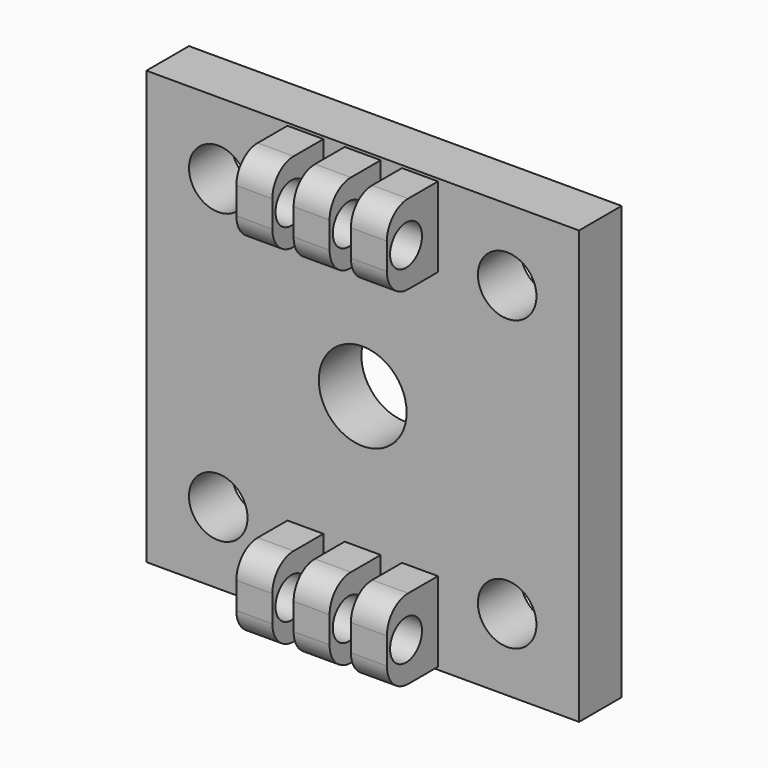
from build123d import *

# Parameters (mm, degrees)
F0_W     = 812.8
F0_H     = 812.8
F0_R     = 55
F0_R_2   = 82.5
F1_DEPTH = 100
F2_W     = 67.6
F2_H     = 150
F3_DEPTH = 120
F4_R     = 50
F5_R     = 37.5
F6_DEPTH = 547.801


with BuildPart() as f1:
    # F0 (on Front) → F1 (new body)
    with BuildSketch(Plane.XZ):
        Rectangle(F0_W, F0_H)
        with Locations((-271.4, -271.4)):
            Circle(F0_R, mode=Mode.SUBTRACT)
        Circle(F0_R_2, mode=Mode.SUBTRACT)
        with Locations((271.4, -271.4)):
            Circle(F0_R, mode=Mode.SUBTRACT)
        with Locations((-271.4, 271.4)):
            Circle(F0_R, mode=Mode.SUBTRACT)
        with Locations((271.4, 271.4)):
            Circle(F0_R, mode=Mode.SUBTRACT)
    extrude(amount=F1_DEPTH)

    # F2 (on face) → F3 (join)
    with BuildSketch(Plane.XZ.offset(100)):
        with Locations((-107.6, 326.4)):
            Rectangle(F2_W, F2_H)
        with Locations((0, 326.4)):
            Rectangle(F2_W, F2_H)
        with Locations((107.6, 326.4)):
            Rectangle(F2_W, F2_H)
        with Locations((107.6, -326.4)):
            Rectangle(F2_W, F2_H)
        with Locations((-107.6, -326.4)):
            Rectangle(F2_W, F2_H)
        with Locations((0, -326.4)):
            Rectangle(F2_W, F2_H)
    extrude(amount=F3_DEPTH)

    # F4
    f4_edges = [f1.edges().sort_by_distance(p)[0] for p in [
        (107.6, -220, -401.4),
        (0, -220, -401.4),
        (-107.6, -220, -401.4),
        (-107.6, -220, -251.4),
        (0, -220, -251.4),
        (107.6, -220, -251.4),
        (107.6, -220, 251.4),
        (107.6, -220, 401.4),
        (0, -220, 251.4),
        (0, -220, 401.4),
        (-107.6, -220, 401.4),
        (-107.6, -220, 251.4),
    ]]
    fillet(f4_edges, radius=F4_R)

    # F5 (on face) → F6 (cut, through all)
    with BuildSketch(Plane.YZ.offset(141.4)):
        with Locations((-175, -326.4)):
            Circle(F5_R)
        with Locations((-175, 326.4)):
            Circle(F5_R)
    extrude(amount=-F6_DEPTH, mode=Mode.SUBTRACT)


solid = f1.part
